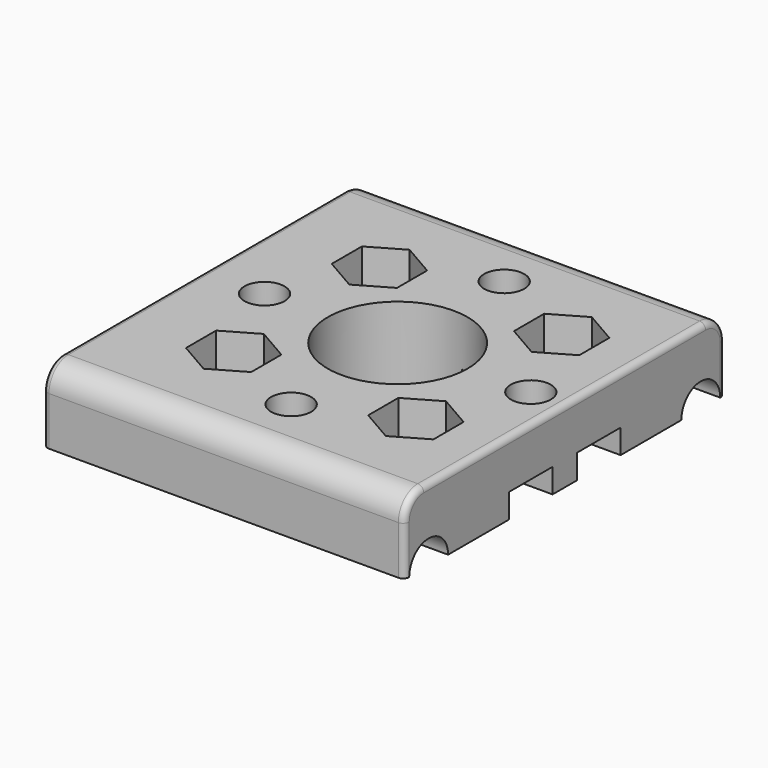
from build123d import *

# Parameters (mm, degrees)
SKETCH_W        = 59.5
SKETCH_H        = 66
PAD_DEPTH       = 12
SKETCH001_R     = 3.3
POCKET_DEPTH    = 6
SKETCH002_R     = 3.3
SKETCH002_R_2   = 1.6
POCKET001_DEPTH = 6.001
SKETCH003_R     = 4
POCKET002_DEPTH = 59.501
SKETCH004_R     = 3.3
POCKET003_DEPTH = 5.5
POCKET004_DEPTH = 5.5
SKETCH006_R     = 11.5
POCKET005_DEPTH = 12.001
SKETCH007_W     = 9
SKETCH007_H     = 4
POCKET006_DEPTH = 26
FILLET_R        = 4
FILLET001_R     = 4
FILLET002_R     = 1
FILLET003_R     = 1


with BuildPart() as part:
    # Sketch → Pad (new body)
    with BuildSketch(Plane.XY):
        with Locations((-2.25, 0)):
            Rectangle(SKETCH_W, SKETCH_H)
    extrude(amount=PAD_DEPTH)

    # Sketch001 (on Face6 of Pad) → Pocket (cut)
    with BuildSketch(Plane.XY.offset(12)):
        with Locations((0, 21.92031)):
            Circle(SKETCH001_R)
        with Locations((-21.92031, 0)):
            Circle(SKETCH001_R)
        with Locations((21.92031, 0)):
            Circle(SKETCH001_R)
        with Locations((0, -21.92031)):
            Circle(SKETCH001_R)
        Polygon((-9.630642, 18.1), (-15, 21.2), (-20.369358, 18.1), (-20.369358, 11.9), (-15, 8.8), (-9.630642, 11.9), align=None)
        Polygon((20.369358, 18.1), (15, 21.2), (9.630642, 18.1), (9.630642, 11.9), (15, 8.8), (20.369358, 11.9), align=None)
        Polygon((-20.369358, -18.1), (-15, -21.2), (-9.630642, -18.1), (-9.630642, -11.9), (-15, -8.8), (-20.369358, -11.9), align=None)
        Polygon((20.369358, -11.9), (15, -8.8), (9.630642, -11.9), (9.630642, -18.1), (15, -21.2), (20.369358, -18.1), align=None)
    extrude(amount=-POCKET_DEPTH, mode=Mode.SUBTRACT)

    # Sketch002 (on Face41 of Pocket) → Pocket001 (cut, through all)
    with BuildSketch(Plane.XY.offset(6)):
        with Locations((-15, 15)):
            Circle(SKETCH002_R)
        with Locations((0, 21.92031)):
            Circle(SKETCH002_R_2)
        with Locations((15, 15)):
            Circle(SKETCH002_R)
        with Locations((-15, -15)):
            Circle(SKETCH002_R)
        with Locations((15, -15)):
            Circle(SKETCH002_R)
        with Locations((0, -21.92031)):
            Circle(SKETCH002_R_2)
        with Locations((21.92031, 0)):
            Circle(SKETCH002_R_2)
        with Locations((-21.92031, 0)):
            Circle(SKETCH002_R_2)
    extrude(amount=-POCKET001_DEPTH, mode=Mode.SUBTRACT)

    # Sketch003 (on Face3 of Pocket001) → Pocket002 (cut, through all)
    with BuildSketch(Plane.YZ.offset(27.5)):
        with Locations((-28, 0)):
            Circle(SKETCH003_R)
        with Locations((28, 0)):
            Circle(SKETCH003_R)
    extrude(amount=-POCKET002_DEPTH, mode=Mode.SUBTRACT)

    # Sketch004 (on Face2 of Pocket002) → Pocket003 (cut)
    with BuildSketch(Plane(origin=(-32, 0, 0), x_dir=(0, -1, 0), z_dir=(-1, 0, 0))):
        with Locations((-15, 0)):
            Circle(SKETCH004_R)
        with Locations((15, 0)):
            Circle(SKETCH004_R)
    extrude(amount=-POCKET003_DEPTH, mode=Mode.SUBTRACT)

    # Sketch005 (on Face42 of Pocket003) → Pocket004 (cut)
    with BuildSketch(Plane(origin=(-26.5, 0, 0), x_dir=(0, -1, 0), z_dir=(-1, 0, 0))):
        Polygon((-9.630642, 3.1), (-15, 6.2), (-20.369358, 3.1), (-20.369358, -3.1), (-15, -6.2), (-9.630642, -3.1), align=None)
        Polygon((9.630642, -3.1), (15, -6.2), (20.369358, -3.1), (20.369358, 3.1), (15, 6.2), (9.630642, 3.1), align=None)
    extrude(amount=-POCKET004_DEPTH, mode=Mode.SUBTRACT)

    # Sketch006 (on Face5 of Pocket004) → Pocket005 (cut, through all)
    with BuildSketch(Plane.XY.offset(12)):
        Circle(SKETCH006_R)
    extrude(amount=-POCKET005_DEPTH, mode=Mode.SUBTRACT)

    # Sketch007 (on Face3 of Pocket005) → Pocket006 (cut)
    with BuildSketch(Plane.YZ.offset(27.5)):
        with Locations((-7, 2)):
            Rectangle(SKETCH007_W, SKETCH007_H)
        with Locations((7, 2)):
            Rectangle(SKETCH007_W, SKETCH007_H)
    extrude(amount=-POCKET006_DEPTH, mode=Mode.SUBTRACT)

    # Fillet
    fillet_edges = [part.edges().sort_by_distance(p)[0] for p in [
        (-2.25, -33, 12),
    ]]
    fillet(fillet_edges, radius=FILLET_R)

    # Fillet001
    fillet001_edges = [part.edges().sort_by_distance(p)[0] for p in [
        (-2.25, 33, 12),
    ]]
    fillet(fillet001_edges, radius=FILLET001_R)

    # Fillet002
    fillet002_edges = [part.edges().sort_by_distance(p)[0] for p in [
        (-32, 0, 12),
    ]]
    fillet(fillet002_edges, radius=FILLET002_R)

    # Fillet003
    fillet003_edges = [part.edges().sort_by_distance(p)[0] for p in [
        (27.5, 0, 12),
    ]]
    fillet(fillet003_edges, radius=FILLET003_R)


solid = part.part
